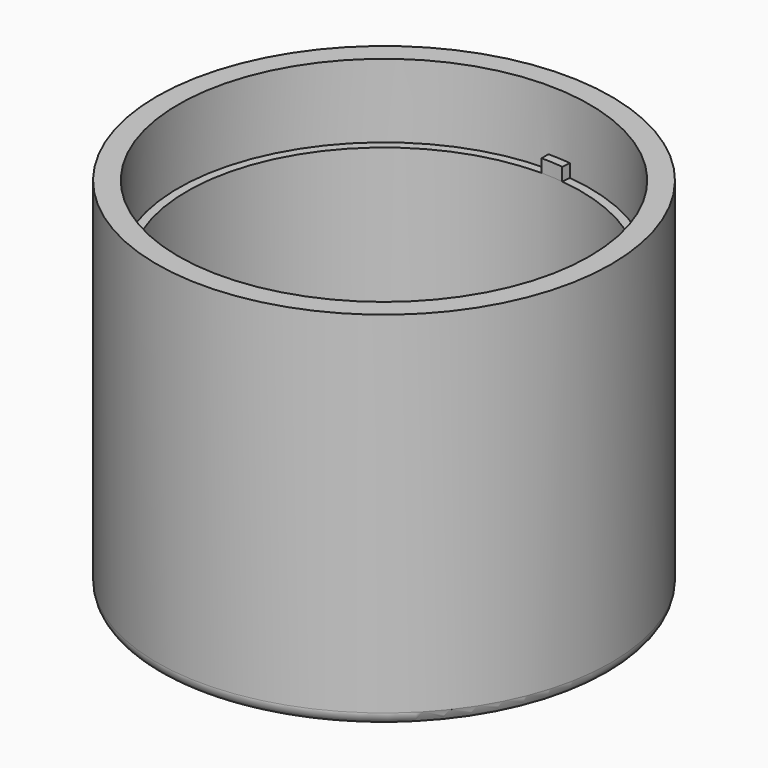
from build123d import *

# Parameters (mm, degrees)
F0_R     = 52.5
F1_DEPTH = 84
F2_T     = -5
F3_R     = 47.5
F3_R_2   = 45.5
F4_DEPTH = 62
F5_R     = 3
F7_DEPTH = 3


with BuildPart() as f1:
    # F0 (on Top) → F1 (new body)
    with BuildSketch(Plane.XY):
        Circle(F0_R)
    extrude(amount=F1_DEPTH)

    # F2
    f2_openings = [f1.faces().sort_by_distance(p)[0] for p in [
        (0, 0, 84),
    ]]
    offset(amount=F2_T, openings=f2_openings)

    # F3 (on face) → F4 (join)
    with BuildSketch(Plane.XY.offset(5)):
        Circle(F3_R)
        Circle(F3_R_2, mode=Mode.SUBTRACT)
    extrude(amount=F4_DEPTH)

    # F5
    f5_edges = [f1.edges().sort_by_distance(p)[0] for p in [
        (-52.5, 0, 0),
    ]]
    fillet(f5_edges, radius=F5_R)

    # F6 (on face) → F7 (join)
    with BuildSketch(Plane.XY.offset(67)):
        with BuildLine():
            ThreePointArc((5.2092810259, 47.2134873865), (2.6085771162, 47.4283177588), (0, 47.5))
            Line((0, 47.5), (0, 45.5))
            ThreePointArc((0, 45.5), (2.4987422903, 45.4313359584), (4.9899428775, 45.2255510755))
            Line((4.9899428775, 45.2255510755), (5.2092810259, 47.2134873865))
        make_face()
    extrude(amount=F7_DEPTH)


solid = f1.part
